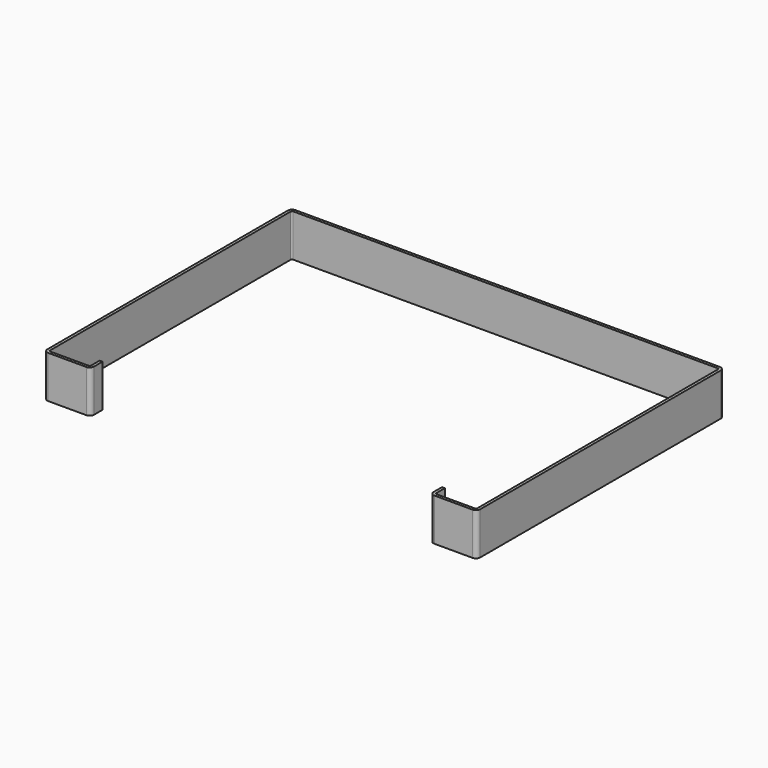
from build123d import *

# Parameters (mm, degrees)
F1_DEPTH = 60


with BuildPart() as f1:
    # F0 (on Top) → F1 (new body)
    with BuildSketch(Plane.XY):
        with BuildLine():
            ThreePointArc((-306, 6), (-304.242641, 1.757359), (-300, 0))
            Line((-300, 0), (-246, 0))
            ThreePointArc((-246, 0), (-241.757359, 1.757359), (-240, 6))
            Line((-240, 6), (-240, 21))
            Line((-240, 21), (-244, 21))
            Line((-244, 21), (-244, 6))
            ThreePointArc((-244, 6), (-244.585786, 4.585786), (-246, 4))
            Line((-246, 4), (-300, 4))
            ThreePointArc((-300, 4), (-301.414214, 4.585786), (-302, 6))
            Line((-302, 6), (-302, 431))
            ThreePointArc((-302, 431), (-301.414214, 432.414214), (-300, 433))
            Line((-300, 433), (300, 433))
            ThreePointArc((300, 433), (301.414214, 432.414214), (302, 431))
            Line((302, 431), (302, 6))
            ThreePointArc((302, 6), (301.414214, 4.585786), (300, 4))
            Line((300, 4), (246, 4))
            ThreePointArc((246, 4), (244.585786, 4.585786), (244, 6))
            Line((244, 6), (244, 21))
            Line((244, 21), (240, 21))
            Line((240, 21), (240, 6))
            ThreePointArc((240, 6), (241.757359, 1.757359), (246, 0))
            Line((246, 0), (300, 0))
            ThreePointArc((300, 0), (304.242641, 1.757359), (306, 6))
            Line((306, 6), (306, 431))
            ThreePointArc((306, 431), (304.242641, 435.242641), (300, 437))
            Line((300, 437), (-300, 437))
            ThreePointArc((-300, 437), (-304.242641, 435.242641), (-306, 431))
            Line((-306, 431), (-306, 6))
        make_face()
    extrude(amount=-F1_DEPTH)


solid = f1.part
